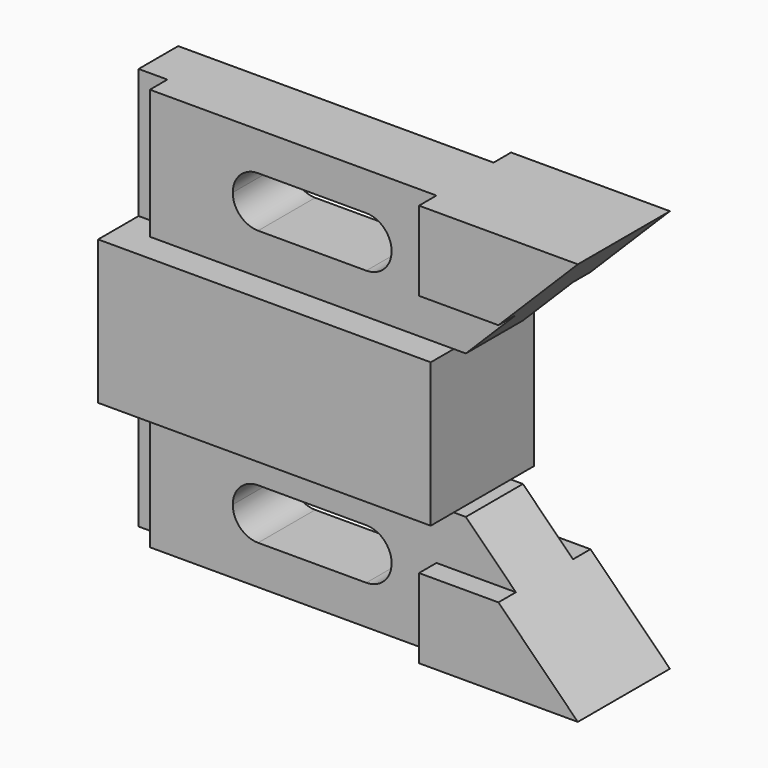
from build123d import *

# Parameters (mm, degrees)
F1_DEPTH  = 104.648
F2_W      = 69.596
F2_H      = 4.826
F3_DEPTH  = 28.575
F2_W_2    = 31.242
F2_H_2    = 1.524
F4_DEPTH  = 150.7
F6_DEPTH  = 28.575
F8_DEPTH  = 26.925
F9_DEPTH  = 4.826
F11_DEPTH = 4.826
F13_DEPTH = 26.925


with BuildPart() as f1:
    # F0 (on Right) → F1 (new body)
    with BuildSketch(Plane.YZ):
        Polygon((0, 28.575), (0, 0), (25.4, 0), (25.4, 28.575), (26.924, 28.575), (26.924, 60.325), (25.4, 60.325), (25.4, 88.9), (0, 88.9), (0, 60.325), (-1.524, 60.325), (-1.524, 28.575), align=None)
    extrude(amount=F1_DEPTH)

    # F2 (on face) → F3 (cut)
    with BuildSketch(Plane.XY.offset(88.9)):
        with Locations((34.798, 22.987)):
            Rectangle(F2_W, F2_H)
        Polygon((0, 4.826), (0, 0), (69.596, 0), (69.596, 4.826), (6.35, 4.826), (6.35, 9.652), (0, 9.652), align=None)
    extrude(amount=-F3_DEPTH, mode=Mode.SUBTRACT)

    # F2 (on face) → F4 (cut)
    with BuildSketch(Plane.XY.offset(88.9)):
        with Locations((89.027, 26.162)):
            Rectangle(F2_W_2, F2_H_2)
        with Locations((89.027, -0.762)):
            Rectangle(F2_W_2, F2_H_2)
    extrude(amount=-F4_DEPTH, mode=Mode.SUBTRACT)

    # F5 (on face) → F6 (cut)
    with BuildSketch(Plane(origin=(0, 0, 0), x_dir=(1, 0, 0), z_dir=(0, 0, -1))):
        Polygon((6.35, -9.652), (6.35, -4.826), (69.596, -4.826), (69.596, 0), (73.406, 0), (73.406, 1.524), (0, 1.524), (0, -9.652), align=None)
        Polygon((69.596, -20.574), (0, -20.574), (0, -26.924), (73.406, -26.924), (73.406, -25.4), (69.596, -25.4), align=None)
    extrude(amount=-F6_DEPTH, mode=Mode.SUBTRACT)

    # F7 (on face) → F8 (cut, through all)
    with BuildSketch(Plane.XZ):
        Polygon((104.648, 44.45), (104.648, 88.9), (87.122, 71.374), (76.073, 60.325), (73.406, 60.325), (73.406, 44.45), align=None)
        Polygon((104.648, 0), (104.648, 44.45), (73.406, 44.45), (73.406, 28.575), (76.073, 28.575), (87.122, 17.526), align=None)
    extrude(amount=-F8_DEPTH, mode=Mode.SUBTRACT)

    # F7 (on face) → F9 (cut)
    with BuildSketch(Plane.XZ):
        Polygon((76.073, 60.325), (87.122, 71.374), (69.596, 71.374), (69.596, 60.325), (73.406, 60.325), align=None)
        Polygon((69.596, 17.526), (87.122, 17.526), (76.073, 28.575), (73.406, 28.575), (69.596, 28.575), align=None)
    extrude(amount=-F9_DEPTH, mode=Mode.SUBTRACT)

    # F10 (on face) → F11 (cut)
    with BuildSketch(Plane(origin=(0, 25.4, 0), x_dir=(-1, 0, 0), z_dir=(0, 1, 0))):
        Polygon((-69.596, 60.325), (-69.596, 71.374), (-87.122, 71.374), (-76.073, 60.325), (-73.406, 60.325), align=None)
        Polygon((-69.596, 17.526), (-69.596, 28.575), (-73.406, 28.575), (-76.073, 28.575), (-87.122, 17.526), align=None)
    extrude(amount=-F11_DEPTH, mode=Mode.SUBTRACT)

    # F12 (on face) → F13 (cut, through all)
    with BuildSketch(Plane.XZ):
        with BuildLine():
            ThreePointArc((30.226, 19.812), (26.2746873067, 18.1753126933), (24.638, 14.224))
            Line((24.638, 14.224), (30.226, 14.224))
            Line((30.226, 14.224), (35.814, 14.224))
            ThreePointArc((35.814, 14.224), (34.1773126933, 18.1753126933), (30.226, 19.812))
        make_face()
        with BuildLine():
            Line((30.226, 14.224), (24.638, 14.224))
            ThreePointArc((24.638, 14.224), (26.2746873067, 10.2726873067), (30.226, 8.636))
            ThreePointArc((30.226, 8.636), (34.1773126933, 10.2726873067), (35.814, 14.224))
            Line((35.814, 14.224), (30.226, 14.224))
        make_face()
        with BuildLine():
            Line((54.102, 19.812), (30.226, 19.812))
            ThreePointArc((30.226, 19.812), (34.1773126933, 18.1753126933), (35.814, 14.224))
            Line((35.814, 14.224), (48.514, 14.224))
            ThreePointArc((48.514, 14.224), (50.1506873067, 18.1753126933), (54.102, 19.812))
        make_face()
        with BuildLine():
            ThreePointArc((35.814, 14.224), (34.1773126933, 10.2726873067), (30.226, 8.636))
            Line((30.226, 8.636), (54.102, 8.636))
            ThreePointArc((54.102, 8.636), (50.1506873067, 10.2726873067), (48.514, 14.224))
            Line((48.514, 14.224), (35.814, 14.224))
        make_face()
        with BuildLine():
            ThreePointArc((59.69, 14.224), (58.0533126933, 18.1753126933), (54.102, 19.812))
            ThreePointArc((54.102, 19.812), (50.1506873067, 18.1753126933), (48.514, 14.224))
            Line((48.514, 14.224), (59.69, 14.224))
        make_face()
        with BuildLine():
            ThreePointArc((48.514, 14.224), (50.1506873067, 10.2726873067), (54.102, 8.636))
            ThreePointArc((54.102, 8.636), (58.0533126933, 10.2726873067), (59.69, 14.224))
            Line((59.69, 14.224), (48.514, 14.224))
        make_face()
        with BuildLine():
            Line((48.514, 74.856311358), (59.69, 74.856311358))
            ThreePointArc((59.69, 74.856311358), (58.0533126933, 78.8076240512), (54.102, 80.444311358))
            ThreePointArc((54.102, 80.444311358), (50.1506873067, 78.8076240512), (48.514, 74.856311358))
        make_face()
        with BuildLine():
            ThreePointArc((54.102, 69.268311358), (58.0533126933, 70.9049986647), (59.69, 74.856311358))
            Line((59.69, 74.856311358), (48.514, 74.856311358))
            ThreePointArc((48.514, 74.856311358), (50.1506873067, 70.9049986647), (54.102, 69.268311358))
        make_face()
        with BuildLine():
            ThreePointArc((48.514, 74.856311358), (50.1506873067, 78.8076240512), (54.102, 80.444311358))
            Line((54.102, 80.444311358), (30.226, 80.444311358))
            ThreePointArc((30.226, 80.444311358), (34.1773126933, 78.8076240512), (35.814, 74.856311358))
            Line((35.814, 74.856311358), (48.514, 74.856311358))
        make_face()
        with BuildLine():
            Line((30.226, 69.268311358), (54.102, 69.268311358))
            ThreePointArc((54.102, 69.268311358), (50.1506873067, 70.9049986647), (48.514, 74.856311358))
            Line((48.514, 74.856311358), (35.814, 74.856311358))
            ThreePointArc((35.814, 74.856311358), (34.1773126933, 70.9049986647), (30.226, 69.268311358))
        make_face()
        with BuildLine():
            ThreePointArc((35.814, 74.856311358), (34.1773126933, 78.8076240512), (30.226, 80.444311358))
            ThreePointArc((30.226, 80.444311358), (26.2746873067, 78.8076240512), (24.638, 74.856311358))
            Line((24.638, 74.856311358), (35.814, 74.856311358))
        make_face()
        with BuildLine():
            ThreePointArc((24.638, 74.856311358), (26.2746873067, 70.9049986647), (30.226, 69.268311358))
            ThreePointArc((30.226, 69.268311358), (34.1773126933, 70.9049986647), (35.814, 74.856311358))
            Line((35.814, 74.856311358), (24.638, 74.856311358))
        make_face()
    extrude(amount=-F13_DEPTH, mode=Mode.SUBTRACT)


solid = f1.part
